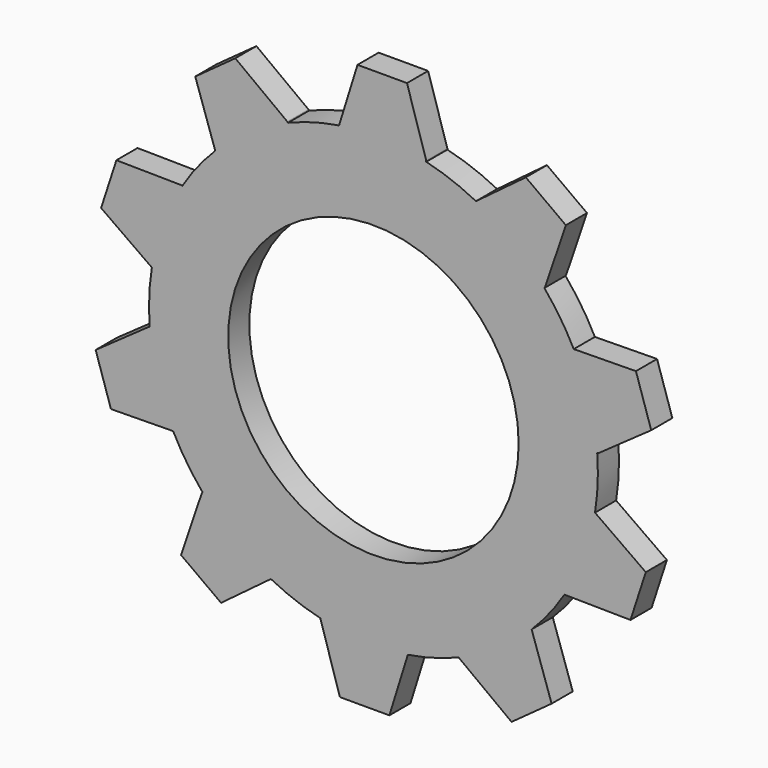
from build123d import *

# Parameters (mm, degrees)
F0_R     = 16.5
F1_DEPTH = 3
F2_DEPTH = 3


with BuildPart() as f1:
    # F0 (on Front) → F1 (new body)
    with BuildSketch(Plane.XZ):
        with BuildLine():
            ThreePointArc((10.650584, 4.982898), (7.88696, 6.201296), (4.998663, 7.084391))
            ThreePointArc((4.998663, 7.084391), (4.999666, 7.142192), (5, 7.2))
            Line((5, 7.2), (2.811259, 14.245932))
            Line((2.811259, 14.245932), (-2.811259, 14.245932))
            Line((-2.811259, 14.245932), (-4.907152, 7.498892))
            ThreePointArc((-4.907152, 7.498892), (-7.859128, 6.860178), (-10.714879, 5.876919))
            ThreePointArc((-10.714879, 5.876919), (-10.748042, 5.92427), (-10.781751, 5.971235))
            Line((-10.781751, 5.971235), (-16.693975, 10.385003))
            Line((-16.693975, 10.385003), (-21.242687, 7.080171))
            Line((-21.242687, 7.080171), (-18.97249, 0.389765))
            ThreePointArc((-18.97249, 0.389765), (-20.985262, -1.862092), (-22.717668, -4.336134))
            ThreePointArc((-22.717668, -4.336134), (-22.77233, -4.317319), (-22.827205, -4.299138))
            Line((-22.827205, -4.299138), (-30.204643, -4.203442))
            Line((-30.204643, -4.203442), (-31.942096, -9.550773))
            Line((-31.942096, -9.550773), (-26.172947, -13.629037))
            ThreePointArc((-26.172947, -13.629037), (-26.477705, -16.633906), (-26.425045, -19.65373))
            ThreePointArc((-26.425045, -19.65373), (-26.480327, -19.670638), (-26.535409, -19.688184))
            Line((-26.535409, -19.688184), (-32.56013, -23.947114))
            Line((-32.56013, -23.947114), (-30.822677, -29.294445))
            Line((-30.822677, -29.294445), (-23.758194, -29.202809))
            ThreePointArc((-23.758194, -29.202809), (-22.238531, -31.812931), (-20.42092, -34.225068))
            ThreePointArc((-20.42092, -34.225068), (-20.455705, -34.27124), (-20.489955, -34.317812))
            Line((-20.489955, -34.317812), (-22.860721, -41.3046))
            Line((-22.860721, -41.3046), (-18.312009, -44.609433))
            Line((-18.312009, -44.609433), (-12.650584, -40.382898))
            ThreePointArc((-12.650584, -40.382898), (-9.88696, -41.601296), (-6.998663, -42.484391))
            ThreePointArc((-6.998663, -42.484391), (-6.999666, -42.542192), (-7, -42.6))
            Line((-7, -42.6), (-4.811259, -49.645932))
            Line((-4.811259, -49.645932), (0.811259, -49.645932))
            Line((0.811259, -49.645932), (2.907152, -42.898892))
            ThreePointArc((2.907152, -42.898892), (5.859128, -42.260178), (8.714879, -41.276919))
            ThreePointArc((8.714879, -41.276919), (8.748042, -41.32427), (8.781751, -41.371235))
            Line((8.781751, -41.371235), (14.693975, -45.785003))
            Line((14.693975, -45.785003), (19.242687, -42.480171))
            Line((19.242687, -42.480171), (16.97249, -35.789765))
            ThreePointArc((16.97249, -35.789765), (18.985262, -33.537908), (20.717668, -31.063866))
            ThreePointArc((20.717668, -31.063866), (20.77233, -31.082681), (20.827205, -31.100862))
            Line((20.827205, -31.100862), (28.204643, -31.196558))
            Line((28.204643, -31.196558), (29.942096, -25.849227))
            Line((29.942096, -25.849227), (24.172947, -21.770963))
            ThreePointArc((24.172947, -21.770963), (24.477705, -18.766094), (24.425045, -15.74627))
            ThreePointArc((24.425045, -15.74627), (24.480327, -15.729362), (24.535409, -15.711816))
            Line((24.535409, -15.711816), (30.56013, -11.452886))
            Line((30.56013, -11.452886), (28.822677, -6.105555))
            Line((28.822677, -6.105555), (21.758194, -6.197191))
            ThreePointArc((21.758194, -6.197191), (20.238531, -3.587069), (18.42092, -1.174932))
            ThreePointArc((18.42092, -1.174932), (18.455705, -1.12876), (18.489955, -1.082188))
            Line((18.489955, -1.082188), (20.860721, 5.9046))
            Line((20.860721, 5.9046), (16.312009, 9.209433))
            Line((16.312009, 9.209433), (10.650584, 4.982898))
        make_face()
        with Locations((-1, -17.7)):
            Circle(F0_R, mode=Mode.SUBTRACT)
    extrude(amount=F1_DEPTH)

    # F0 (on Front) → F2 (join)
    with BuildSketch(Plane.XZ):
        with BuildLine():
            ThreePointArc((10.650584, 4.982898), (7.88696, 6.201296), (4.998663, 7.084391))
            ThreePointArc((4.998663, 7.084391), (4.999666, 7.142192), (5, 7.2))
            Line((5, 7.2), (2.811259, 14.245932))
            Line((2.811259, 14.245932), (-2.811259, 14.245932))
            Line((-2.811259, 14.245932), (-4.907152, 7.498892))
            ThreePointArc((-4.907152, 7.498892), (-7.859128, 6.860178), (-10.714879, 5.876919))
            ThreePointArc((-10.714879, 5.876919), (-10.748042, 5.92427), (-10.781751, 5.971235))
            Line((-10.781751, 5.971235), (-16.693975, 10.385003))
            Line((-16.693975, 10.385003), (-21.242687, 7.080171))
            Line((-21.242687, 7.080171), (-18.97249, 0.389765))
            ThreePointArc((-18.97249, 0.389765), (-20.985262, -1.862092), (-22.717668, -4.336134))
            ThreePointArc((-22.717668, -4.336134), (-22.77233, -4.317319), (-22.827205, -4.299138))
            Line((-22.827205, -4.299138), (-30.204643, -4.203442))
            Line((-30.204643, -4.203442), (-31.942096, -9.550773))
            Line((-31.942096, -9.550773), (-26.172947, -13.629037))
            ThreePointArc((-26.172947, -13.629037), (-26.477705, -16.633906), (-26.425045, -19.65373))
            ThreePointArc((-26.425045, -19.65373), (-26.480327, -19.670638), (-26.535409, -19.688184))
            Line((-26.535409, -19.688184), (-32.56013, -23.947114))
            Line((-32.56013, -23.947114), (-30.822677, -29.294445))
            Line((-30.822677, -29.294445), (-23.758194, -29.202809))
            ThreePointArc((-23.758194, -29.202809), (-22.238531, -31.812931), (-20.42092, -34.225068))
            ThreePointArc((-20.42092, -34.225068), (-20.455705, -34.27124), (-20.489955, -34.317812))
            Line((-20.489955, -34.317812), (-22.860721, -41.3046))
            Line((-22.860721, -41.3046), (-18.312009, -44.609433))
            Line((-18.312009, -44.609433), (-12.650584, -40.382898))
            ThreePointArc((-12.650584, -40.382898), (-9.88696, -41.601296), (-6.998663, -42.484391))
            ThreePointArc((-6.998663, -42.484391), (-6.999666, -42.542192), (-7, -42.6))
            Line((-7, -42.6), (-4.811259, -49.645932))
            Line((-4.811259, -49.645932), (0.811259, -49.645932))
            Line((0.811259, -49.645932), (2.907152, -42.898892))
            ThreePointArc((2.907152, -42.898892), (5.859128, -42.260178), (8.714879, -41.276919))
            ThreePointArc((8.714879, -41.276919), (8.748042, -41.32427), (8.781751, -41.371235))
            Line((8.781751, -41.371235), (14.693975, -45.785003))
            Line((14.693975, -45.785003), (19.242687, -42.480171))
            Line((19.242687, -42.480171), (16.97249, -35.789765))
            ThreePointArc((16.97249, -35.789765), (18.985262, -33.537908), (20.717668, -31.063866))
            ThreePointArc((20.717668, -31.063866), (20.77233, -31.082681), (20.827205, -31.100862))
            Line((20.827205, -31.100862), (28.204643, -31.196558))
            Line((28.204643, -31.196558), (29.942096, -25.849227))
            Line((29.942096, -25.849227), (24.172947, -21.770963))
            ThreePointArc((24.172947, -21.770963), (24.477705, -18.766094), (24.425045, -15.74627))
            ThreePointArc((24.425045, -15.74627), (24.480327, -15.729362), (24.535409, -15.711816))
            Line((24.535409, -15.711816), (30.56013, -11.452886))
            Line((30.56013, -11.452886), (28.822677, -6.105555))
            Line((28.822677, -6.105555), (21.758194, -6.197191))
            ThreePointArc((21.758194, -6.197191), (20.238531, -3.587069), (18.42092, -1.174932))
            ThreePointArc((18.42092, -1.174932), (18.455705, -1.12876), (18.489955, -1.082188))
            Line((18.489955, -1.082188), (20.860721, 5.9046))
            Line((20.860721, 5.9046), (16.312009, 9.209433))
            Line((16.312009, 9.209433), (10.650584, 4.982898))
        make_face()
        with Locations((-1, -17.7)):
            Circle(F0_R, mode=Mode.SUBTRACT)
    extrude(amount=F2_DEPTH)


solid = f1.part
